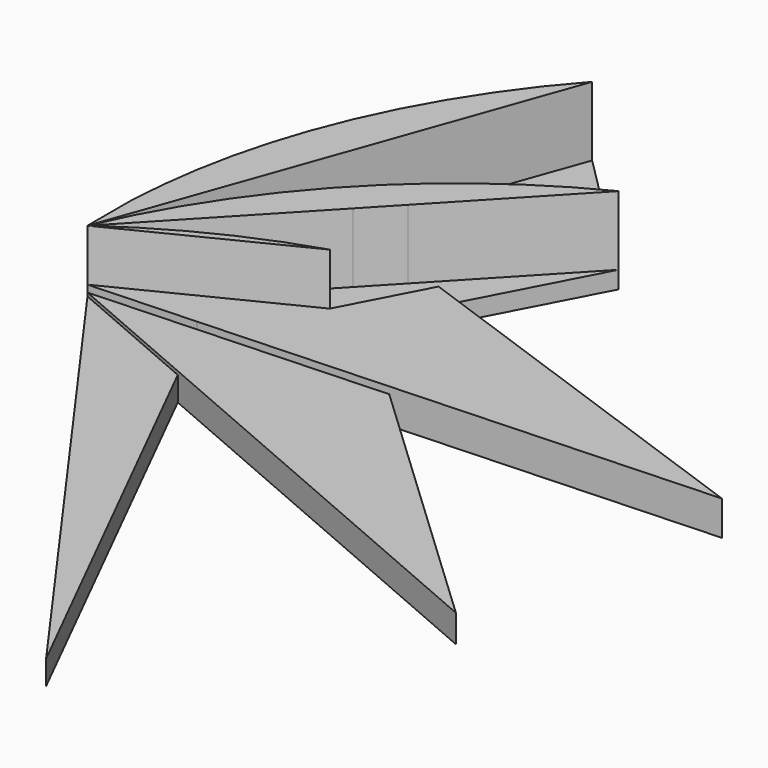
from build123d import *

# Parameters (mm, degrees)
F1_DEPTH = 25
F2_DEPTH = 5
F3_DEPTH = 5
F4_DEPTH = 7
F5_DEPTH = 8
F6_DEPTH = 10


with BuildPart() as f1:
    # F0 (on Top) → F1 (new body)
    with BuildSketch(Plane.XY):
        with BuildLine():
            Line((10.152432519, 67.4098455289), (22.5, 63))
            Line((22.5, 63), (45, 126))
            ThreePointArc((45, 126), (24.7324515111, 98.3963039336), (10.152432519, 67.4098455289))
        make_face()
        with BuildLine():
            Line((0, 15.609906012), (0, 0))
            Line((0, 0), (22.5, 63))
            Line((22.5, 63), (10.152432519, 67.4098455289))
            ThreePointArc((10.152432519, 67.4098455289), (3.1367867799, 41.8899906336), (0, 15.609906012))
        make_face()
    extrude(amount=F1_DEPTH)


with BuildPart() as f1b:
    # F0 (on Top) → F1, piece 2 (new body)
    with BuildSketch(Plane.XY):
        with BuildLine():
            ThreePointArc((39.3605810321, 56.9783639171), (16.8700242777, 30.4305102872), (0, 0))
            Line((0, 0), (41.5, 44))
            Line((41.5, 44), (50.1174863388, 53.1366120219))
            Line((50.1174863388, 53.1366120219), (39.3605810321, 56.9783639171))
        make_face()
        with BuildLine():
            Line((50.1174863388, 53.1366120219), (83, 88))
            ThreePointArc((83, 88), (60.0019793598, 74.1467610135), (39.3605810321, 56.9783639171))
            Line((39.3605810321, 56.9783639171), (50.1174863388, 53.1366120219))
        make_face()
    extrude(amount=F1_DEPTH)


with BuildPart() as f1c:
    # F0 (on Top) → F1, piece 3 (new body)
    with BuildSketch(Plane.XY):
        with BuildLine():
            ThreePointArc((50, 25), (24.0080417918, 14.4839164165), (0, 0))
            Line((0, 0), (25, 12.5))
            Line((25, 12.5), (50, 25))
        make_face()
    extrude(amount=F1_DEPTH)


with BuildPart() as f2:
    # F0 (on Top) → F2 (new body)
    with BuildSketch(Plane.XY):
        with BuildLine():
            ThreePointArc((39.3605810321, 56.9783639171), (60.0019793598, 74.1467610135), (83, 88))
            Line((83, 88), (45, 126))
            Line((45, 126), (22.5, 63))
            Line((22.5, 63), (39.3605810321, 56.9783639171))
        make_face()
        with BuildLine():
            Line((22.5, 63), (0, 0))
            ThreePointArc((0, 0), (16.8700242777, 30.4305102872), (39.3605810321, 56.9783639171))
            Line((39.3605810321, 56.9783639171), (22.5, 63))
        make_face()
    extrude(amount=F2_DEPTH)


with BuildPart() as f3:
    # F0 (on Top) → F3 (new body)
    with BuildSketch(Plane.XY):
        Polygon((50.1174863388, 53.1366120219), (62.4340974212, 48.7378223496), (83, 88), align=None)
        Polygon((53.8505976096, 32.351140891), (62.4340974212, 48.7378223496), (50.1174863388, 53.1366120219), (41.5, 44), align=None)
        with BuildLine():
            Line((50, 25), (53.8505976096, 32.351140891))
            Line((53.8505976096, 32.351140891), (41.5, 44))
            Line((41.5, 44), (0, 0))
            ThreePointArc((0, 0), (24.0080417918, 14.4839164165), (50, 25))
        make_face()
    extrude(amount=F3_DEPTH)


with BuildPart() as f4:
    # F0 (on Top) → F4 (new body)
    with BuildSketch(Plane.XY):
        with BuildLine():
            ThreePointArc((87.4027997528, -121.9046783162), (89.1643733235, -120.6221975004), (90.9071316323, -119.3142632646))
            Line((90.9071316323, -119.3142632646), (39.8623721256, -17.2247442512))
            Line((39.8623721256, -17.2247442512), (0, 0))
            Line((0, 0), (87.4027997528, -121.9046783162))
        make_face()
        Polygon((39.8623721256, -17.2247442512), (31.25, 0), (0, 0), align=None)
        Polygon((0, 0), (31.25, 0), (30.5760385255, 1.347922949), align=None)
        Polygon((0, 0), (30.5760385255, 1.347922949), (25, 12.5), align=None)
        with BuildLine():
            Line((103.2623792125, -144.024758425), (90.9071316323, -119.3142632646))
            ThreePointArc((90.9071316323, -119.3142632646), (89.1643733235, -120.6221975004), (87.4027997528, -121.9046783162))
            Line((87.4027997528, -121.9046783162), (103.2623792125, -144.024758425))
        make_face()
    extrude(amount=F4_DEPTH)


with BuildPart() as f5:
    # F0 (on Top) → F5 (new body)
    with BuildSketch(Plane.XY):
        with BuildLine():
            ThreePointArc((137.6949577206, -59.4987278715), (139.6034874143, -54.871361399), (141.3565608313, -50.1828926023))
            Line((141.3565608314, -50.1828926023), (88.1506024096, 0))
            Line((88.1506024096, 0), (31.25, 0))
            Line((31.25, 0), (39.8623721256, -17.2247442512))
            Line((39.8623721256, -17.2247442512), (137.6949577206, -59.4987278715))
        make_face()
        with BuildLine():
            Line((162.680245713, -70.2950044793), (141.3565608314, -50.1828926023))
            ThreePointArc((141.3565608313, -50.1828926023), (139.6034874143, -54.871361399), (137.6949577206, -59.4987278715))
            Line((137.6949577206, -59.4987278715), (162.680245713, -70.2950044793))
        make_face()
        Polygon((39.8623721256, -17.2247442512), (31.25, 0), (0, 0), align=None)
        Polygon((0, 0), (30.5760385255, 1.347922949), (25, 12.5), align=None)
        Polygon((30.5760385255, 1.347922949), (84.2144228051, 3.7125330361), (53.8505976096, 32.351140891), (50, 25), (25, 12.5), align=None)
        Polygon((31.25, 0), (88.1506024096, 0), (84.2144228051, 3.7125330361), (30.5760385255, 1.347922949), align=None)
        Polygon((0, 0), (31.25, 0), (30.5760385255, 1.347922949), align=None)
    extrude(amount=F5_DEPTH)


with BuildPart() as f6:
    # F0 (on Top) → F6 (new body)
    with BuildSketch(Plane.XY):
        Polygon((0, 0), (30.5760385255, 1.347922949), (25, 12.5), align=None)
        Polygon((30.5760385255, 1.347922949), (84.2144228051, 3.7125330361), (53.8505976096, 32.351140891), (50, 25), (25, 12.5), align=None)
        with BuildLine():
            Line((84.2144228051, 3.7125330361), (149.8544552603, 6.6062272617))
            ThreePointArc((149.8544552603, 6.6062272617), (149.5002551148, 12.234121162), (148.9347702621, 17.8447249064))
            Line((148.9347702621, 17.8447249064), (62.4340974212, 48.7378223496))
            Line((62.4340974212, 48.7378223496), (53.8505976096, 32.351140891))
            Line((53.8505976096, 32.351140891), (84.2144228051, 3.7125330361))
        make_face()
        with BuildLine():
            ThreePointArc((148.9347702621, 17.8447249064), (149.5002551148, 12.234121162), (149.8544552603, 6.6062272617))
            Line((149.8544552603, 6.6062272617), (177.0461315832, 7.804953006))
            Line((177.0461315832, 7.804953006), (148.9347702621, 17.8447249064))
        make_face()
    extrude(amount=F6_DEPTH)


solid = Compound([f1.part, f1b.part, f1c.part, f2.part, f3.part, f4.part, f5.part, f6.part])
